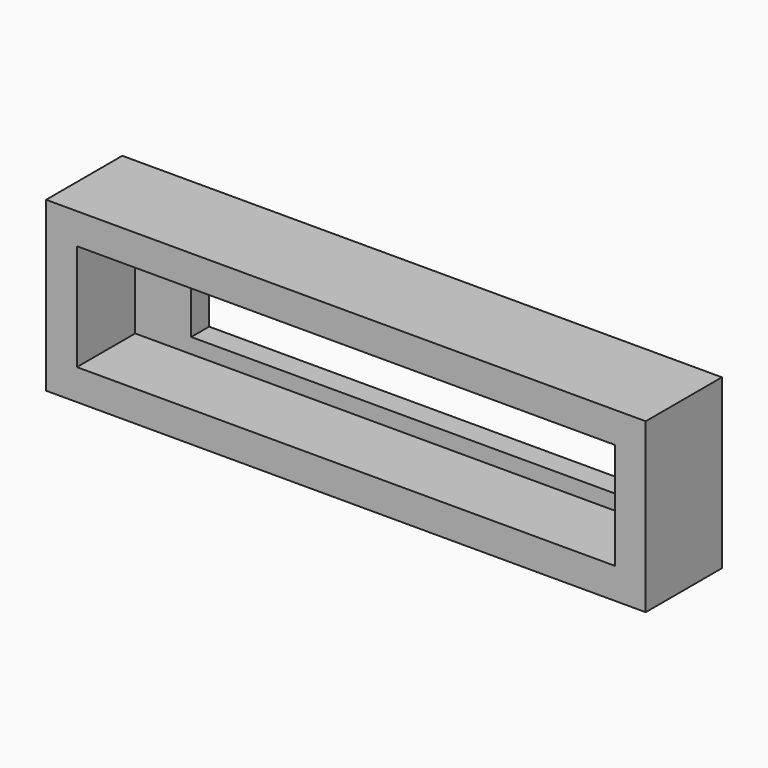
from build123d import *

# Parameters (mm, degrees)
F0_W     = 121.92
F0_H     = 24.13
F0_W_2   = 96.52
F0_H_2   = 17.272
F1_DEPTH = 5.08
F2_W     = 135.89
F2_H     = 38.1
F2_W_2   = 121.92
F2_H_2   = 24.13
F3_DEPTH = 21.59


with BuildPart() as f1:
    # F0 (on Front) → F1 (new body)
    with BuildSketch(Plane.XZ):
        Rectangle(F0_W, F0_H)
        Rectangle(F0_W_2, F0_H_2, mode=Mode.SUBTRACT)
    extrude(amount=F1_DEPTH)

    # F2 (on Front) → F3 (join)
    with BuildSketch(Plane.XZ):
        Rectangle(F2_W, F2_H)
        Rectangle(F2_W_2, F2_H_2, mode=Mode.SUBTRACT)
    extrude(amount=F3_DEPTH)


solid = f1.part
